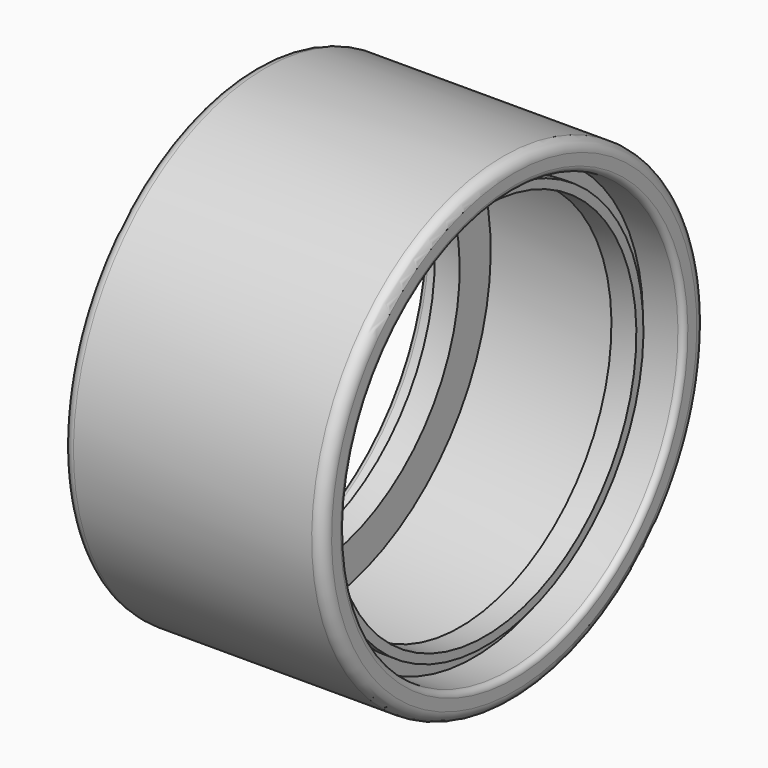
from build123d import *


with BuildPart() as part:
    # Sketch → Revolution (revolve)
    with BuildSketch(Plane.XZ):
        with BuildLine():
            Line((-13.7, 41.2), (-13.7, 34.2))
            Line((-13.7, 34.2), (-18.2, 34.2))
            Line((-18.2, 34.2), (-18.2, 35.8))
            Line((-18.2, 35.8), (-16.2, 35.8))
            Line((-16.2, 35.8), (-16.2, 38.2))
            Line((-22.5, 38.2), (-16.2, 38.2))
            ThreePointArc((-23.5, 39.2), (-23.207107, 38.492893), (-22.5, 38.2))
            Line((-23.5, 39.2), (-23.5, 41.2))
            ThreePointArc((-21.5, 43.2), (-22.914214, 42.614214), (-23.5, 41.2))
            Line((-21.5, 43.2), (21.5, 43.2))
            ThreePointArc((23.5, 41.2), (22.914214, 42.614214), (21.5, 43.2))
            Line((23.5, 41.2), (23.5, 39.2))
            ThreePointArc((22.5, 38.2), (23.207107, 38.492893), (23.5, 39.2))
            Line((16.2, 38.2), (22.5, 38.2))
            Line((16.2, 35.8), (16.2, 38.2))
            Line((18.2, 35.8), (16.2, 35.8))
            Line((18.2, 34.2), (18.2, 35.8))
            Line((13.7, 34.2), (18.2, 34.2))
            Line((13.7, 41.2), (13.7, 34.2))
            Line((13.7, 41.2), (-13.7, 41.2))
        make_face()
    revolve(axis=Axis((0, 0, 0), (1, 0, 0)))


solid = part.part
